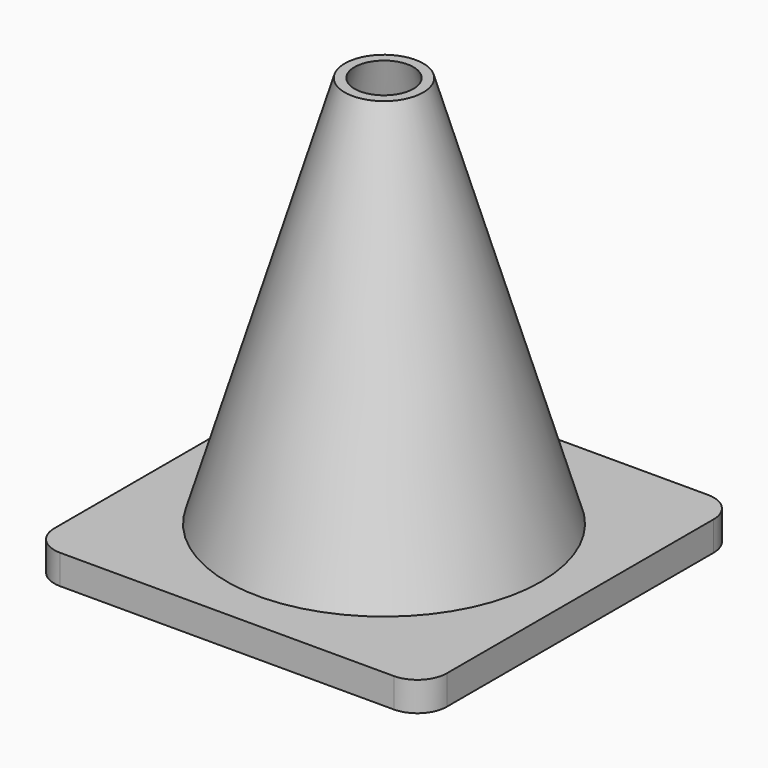
from build123d import *

# Parameters (mm, degrees)
BOX_W     = 40
BOX_H     = 40
BOX_DEPTH = 3
FILLET_R  = 3


with BuildPart() as cono_interior:
    # Cone002 → Cone002 (revolve)
    with BuildSketch(Plane(origin=(20, 20, 0), x_dir=(1, 0, 0), z_dir=(0, -1, 0))):
        Polygon((0, 0), (15, 0), (3, 43), (0, 43), align=None)
    revolve(axis=Axis((20, 20, 0), (0, 0, 1)))


with BuildPart() as cono_ext:
    # Cone → Cone (revolve)
    with BuildSketch(Plane(origin=(20, 20, 3), x_dir=(1, 0, 0), z_dir=(0, -1, 0))):
        Polygon((0, 0), (16, 0), (4, 40), (0, 40), align=None)
    revolve(axis=Axis((20, 20, 3), (0, 0, 1)))


with BuildPart() as obj1:
    # Box → Box (new body)
    with BuildSketch(Plane.XY):
        with Locations((20, 20)):
            Rectangle(BOX_W, BOX_H)
    extrude(amount=BOX_DEPTH)

    # Fusion: union Cono_ext
    add(cono_ext.part)

    # Cut: cut Cono_interior
    add(cono_interior.part, mode=Mode.SUBTRACT)

    # Fillet
    fillet_edges = [obj1.edges().sort_by_distance(p)[0] for p in [
        (0, 0, 1.5),
        (0, 40, 1.5),
        (40, 0, 1.5),
        (40, 40, 1.5),
    ]]
    fillet(fillet_edges, radius=FILLET_R)


solid = obj1.part
